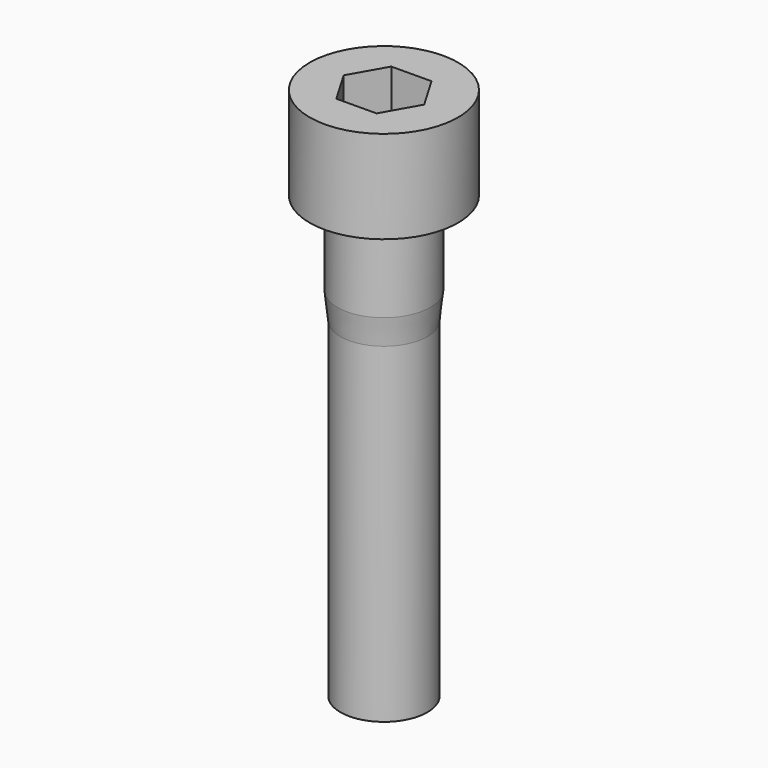
from build123d import *

# Parameters (mm, degrees)
F3_DEPTH = 4.0132


with BuildPart() as f1:
    # F0 (on Front) → F1 (revolve)
    with BuildSketch(Plane.XZ):
        Polygon((-3.75, 24.455269), (-3.75, -4.044731), (0, -4.044731), (0, 41.955269), (-6.4, 41.955269), (-6.4, 33.955269), (-4, 33.955269), (-4, 26.755269), align=None)
    revolve(axis=Axis((0, 0, 18.955269), (0, 0, -1)))

    # F2 (on face) → F3 (cut)
    with BuildSketch(Plane.XY.offset(41.955269)):
        Polygon((-1.747532, 2.974665), (-3.449901, -0.026075), (-1.702369, -3.00074), (1.747532, -2.974665), (3.449901, 0.026075), (1.702369, 3.00074), align=None)
    extrude(amount=-F3_DEPTH, mode=Mode.SUBTRACT)


solid = f1.part
